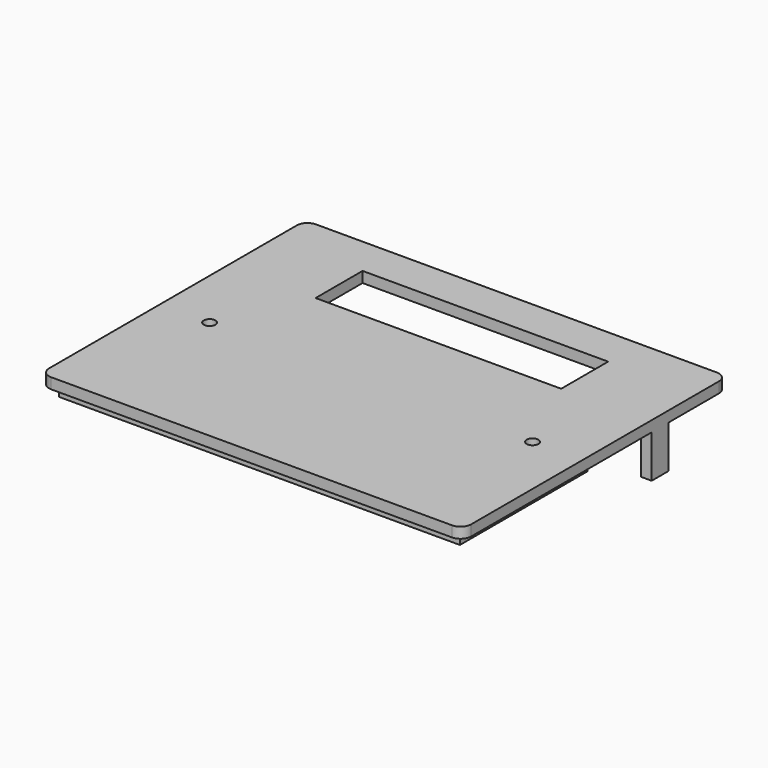
from build123d import *

# Parameters (mm, degrees)
F1_DEPTH = 2
F0_R     = 3
F0_R_2   = 1.1
F2_DEPTH = 2
F0_W     = 3.1642657705
F0_H     = 1.4890261218
F3_DEPTH = 10
F4_DEPTH = 4
F5_R     = 2


with BuildPart() as f1:
    # F0 (on Top) → F1 (new body)
    with BuildSketch(Plane.XY):
        Polygon((-37.55, -13.0740804598), (-37.55, -12.1), (-37.55, 13.5259195402), (37.55, 13.5259195402), (37.55, 2.0000108369), (39.55, 2.0000108369), (39.55, 15.7519578086), (-39.5226512551, 15.7519578086), (-39.5226512551, -46.2480421914), (39.55, -46.2480421914), (39.55, -1.9999891631), (37.55, -1.9999891631), (37.55, -13.0740804598), (-4.9305087887, -13.0740804598), (-4.9305087887, -14.5631065816), (36.1, -14.5631065816), (37.55, -14.5631065816), (37.55, -44.3981406778), (-37.55, -44.3981406778), (-37.55, -14.5631065816), (-36.1, -14.5631065816), (-8.0947745591, -14.5631065816), (-8.0947745591, -13.0740804598), align=None)
    extrude(amount=-F1_DEPTH)

    # F0 (on Top) → F2 (join)
    with BuildSketch(Plane.XY):
        Polygon((-4.9305087887, -14.5631065816), (-8.0947745591, -14.5631065816), (-36.1, -14.5631065816), (-36.1, -42.9981406778), (36.1, -42.9981406778), (36.1, -14.5631065816), align=None)
        with Locations((-30.2370786667, -18.2506926358)):
            Circle(F0_R, mode=Mode.SUBTRACT)
        with Locations((30.2370786667, -18.2506926358)):
            Circle(F0_R, mode=Mode.SUBTRACT)
        Polygon((-37.55, 13.5259195402), (-37.55, -12.1), (-37.55, -13.0740804598), (-8.0947745591, -13.0740804598), (-4.9305087887, -13.0740804598), (37.55, -13.0740804598), (37.55, -1.9999891631), (37.55, 2.0000108369), (37.55, 13.5259195402), align=None)
        Polygon((36.1, 12.1), (36.1, -12.1), (-36.1, -12.1), (-36.1, 12.1), (-25.6, 12.1), (29.1, 12.1), align=None, mode=Mode.SUBTRACT)
        Polygon((-36.1, -12.1), (36.1, -12.1), (36.1, 12.1), (29.1, 12.1), (-25.6, 12.1), (-36.1, 12.1), align=None)
        with BuildLine():
            ThreePointArc((-23, 0.1033370453), (-28.1971127107, 0.0983324043), (-25.6, 4.6))
            ThreePointArc((-25.6, 4.6), (-24.0983324043, 4.1971127107), (-23, 3.0966629547))
            Line((-23, 3.0966629547), (-23, 8.5))
            Line((-23, 8.5), (0, 8.5))
            Line((0, 8.5), (23, 8.5))
            Line((23, 8.5), (23, -2.5))
            Line((23, -2.5), (-23, -2.5))
            Line((-23, -2.5), (-23, 0.1033370453))
        make_face(mode=Mode.SUBTRACT)
        with BuildLine():
            ThreePointArc((32.1000297599, 2.1), (26.978658613, -0.021341387), (29.1, 5.1000297599))
            ThreePointArc((29.1, 5.1000297599), (31.221341387, 4.221341387), (32.1000297599, 2.1))
        make_face(mode=Mode.SUBTRACT)
        Polygon((-36.1, -42.9981406778), (-36.1, -14.5631065816), (-37.55, -14.5631065816), (-37.55, -44.3981406778), (37.55, -44.3981406778), (37.55, -14.5631065816), (36.1, -14.5631065816), (36.1, -42.9981406778), align=None)
        with BuildLine():
            ThreePointArc((32.1000297599, 2.1), (31.221341387, 4.221341387), (29.1, 5.1000297599))
            ThreePointArc((29.1, 5.1000297599), (26.978658613, -0.021341387), (32.1000297599, 2.1))
        make_face()
        with BuildLine():
            ThreePointArc((30.2, 2.1), (28.3221825407, 1.3221825407), (29.1, 3.2))
            ThreePointArc((29.1, 3.2), (29.8778174593, 2.8778174593), (30.2, 2.1))
        make_face(mode=Mode.SUBTRACT)
        with Locations((30.2370786667, -18.2506926358)):
            Circle(F0_R)
        with Locations((30.2370786667, -18.2506926358)):
            Circle(F0_R_2, mode=Mode.SUBTRACT)
        with Locations((-30.2370786667, -18.2506926358)):
            Circle(F0_R)
        with Locations((-30.2370786667, -18.2506926358)):
            Circle(F0_R_2, mode=Mode.SUBTRACT)
        with BuildLine():
            Line((-25.6, 2.7), (-25.6, 4.6))
            ThreePointArc((-25.6, 4.6), (-28.1971127107, 0.0983324043), (-23, 0.1033370453))
            Line((-23, 0.1033370453), (-23, 1.6))
            Line((-23, 1.6), (-24.5, 1.6))
            ThreePointArc((-24.5, 1.6), (-26.3778174593, 0.8221825407), (-25.6, 2.7))
        make_face()
        with BuildLine():
            ThreePointArc((-23, 3.0966629547), (-24.0983324043, 4.1971127107), (-25.6, 4.6))
            Line((-25.6, 4.6), (-25.6, 2.7))
            ThreePointArc((-25.6, 2.7), (-24.8221825407, 2.3778174593), (-24.5, 1.6))
            Line((-24.5, 1.6), (-23, 1.6))
            Line((-23, 1.6), (-23, 3.0966629547))
        make_face()
        with BuildLine():
            ThreePointArc((30.2, 2.1), (29.8778174593, 2.8778174593), (29.1, 3.2))
            ThreePointArc((29.1, 3.2), (28.3221825407, 1.3221825407), (30.2, 2.1))
        make_face()
        with BuildLine():
            Line((-25.6, 1.6), (-25.6, 2.7))
            ThreePointArc((-25.6, 2.7), (-26.3778174593, 0.8221825407), (-24.5, 1.6))
            Line((-24.5, 1.6), (-25.6, 1.6))
        make_face()
        with BuildLine():
            ThreePointArc((-24.5, 1.6), (-24.8221825407, 2.3778174593), (-25.6, 2.7))
            Line((-25.6, 2.7), (-25.6, 1.6))
            Line((-25.6, 1.6), (-24.5, 1.6))
        make_face()
    extrude(amount=-F2_DEPTH)

    # F0 (on Top) → F3 (join)
    with BuildSketch(Plane.XY):
        Polygon((39.55, 2.0000108369), (37.55, 2.0000108369), (37.55, -1.9999891631), (39.55, -1.9999891631), (39.55, 1.08369e-05), align=None)
        Polygon((39.55, 2.0000108369), (37.55, 2.0000108369), (37.55, -1.9999891631), (39.55, -1.9999891631), (39.55, 1.08369e-05), align=None)
        with Locations((-6.5126416739, -13.8185935207)):
            Rectangle(F0_W, F0_H)
    extrude(amount=-F3_DEPTH)

    # F0 (on Top) → F4 (join)
    with BuildSketch(Plane.XY):
        Polygon((-36.1, -42.9981406778), (-36.1, -14.5631065816), (-37.55, -14.5631065816), (-37.55, -44.3981406778), (37.55, -44.3981406778), (37.55, -14.5631065816), (36.1, -14.5631065816), (36.1, -42.9981406778), align=None)
    extrude(amount=-F4_DEPTH)

    # F5
    f5_edges = [f1.edges().sort_by_distance(p)[0] for p in [
        (-39.522651, 15.751958, -1),
        (39.55, 15.751958, -1),
        (39.55, -46.248042, -1),
        (-39.522651, -46.248042, -1),
    ]]
    fillet(f5_edges, radius=F5_R)


solid = f1.part
